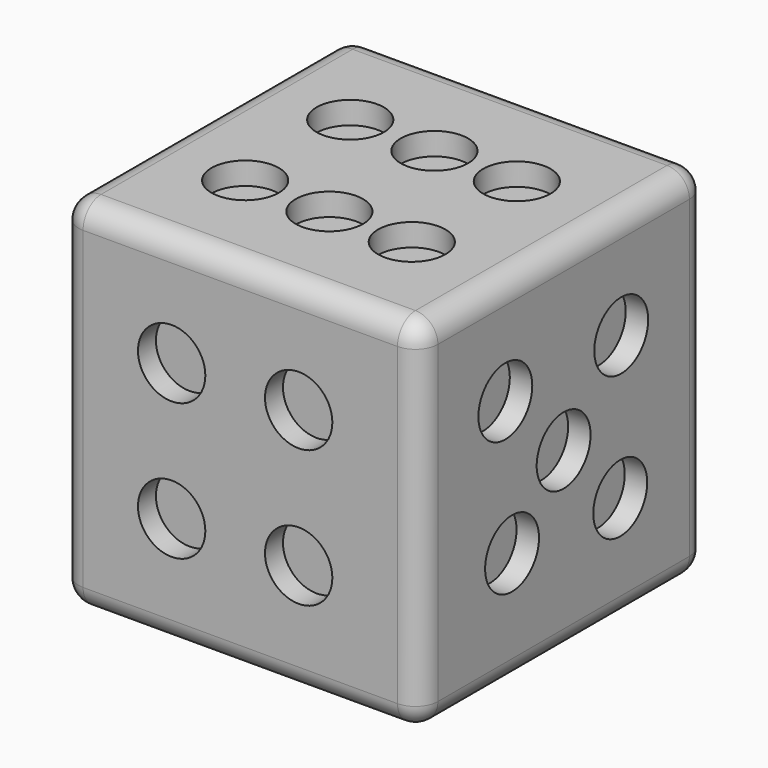
from build123d import *

# Parameters (mm, degrees)
F0_W      = 16
F0_H      = 16
F1_DEPTH  = 16
F2_R      = 1
F4_R      = 1.5
F5_DEPTH  = 1
F3_R      = 1.5
F6_DEPTH  = 1
F7_R      = 1.5
F8_DEPTH  = 1
F9_R      = 1.5
F10_DEPTH = 1
F12_R     = 1.5
F13_DEPTH = 1
F11_R     = 1.5
F14_DEPTH = 1


with BuildPart() as f1:
    # F0 (on Top) → F1 (new body)
    with BuildSketch(Plane.XY):
        Rectangle(F0_W, F0_H)
    extrude(amount=F1_DEPTH)

    # F2
    f2_edges = [f1.edges().sort_by_distance(p)[0] for p in [
        (8, 0, 0),
        (8, 8, 8),
        (8, -8, 8),
        (8, 0, 16),
        (-8, 0, 16),
        (-8, 0, 0),
        (-8, -8, 8),
        (-8, 8, 8),
        (0, -8, 16),
        (0, -8, 0),
        (0, 8, 0),
        (0, 8, 16),
    ]]
    fillet(f2_edges, radius=F2_R)

    # F4 (on face) → F5 (cut)
    with BuildSketch(Plane.XY.offset(16)):
        with Locations((3.670213, -3.041311)):
            Circle(F4_R)
        with Locations((3.670213, 2.806282)):
            Circle(F4_R)
        with Locations((0, 2.806282)):
            Circle(F4_R)
        with Locations((-3.749967, 2.806282)):
            Circle(F4_R)
        with Locations((-3.749967, -3.041311)):
            Circle(F4_R)
        with Locations((0, -3.041311)):
            Circle(F4_R)
    extrude(amount=-F5_DEPTH, mode=Mode.SUBTRACT)

    # F3 (on face) → F6 (cut)
    with BuildSketch(Plane(origin=(0, 0, 0), x_dir=(1, 0, 0), z_dir=(0, 0, -1))):
        Circle(F3_R)
    extrude(amount=-F6_DEPTH, mode=Mode.SUBTRACT)

    # F7 (on face) → F8 (cut)
    with BuildSketch(Plane.XZ.offset(8)):
        with Locations((-3.057017, 4.979474)):
            Circle(F7_R)
        with Locations((2.599712, 4.979474)):
            Circle(F7_R)
        with Locations((-3.057017, 11.075789)):
            Circle(F7_R)
        with Locations((2.599712, 11.075789)):
            Circle(F7_R)
    extrude(amount=-F8_DEPTH, mode=Mode.SUBTRACT)

    # F9 (on face) → F10 (cut)
    with BuildSketch(Plane(origin=(-8, 0, 0), x_dir=(0, -1, 0), z_dir=(-1, 0, 0))):
        with Locations((-2.80434, 5.19566)):
            Circle(F9_R)
        with Locations((2.57599, 10.57599)):
            Circle(F9_R)
    extrude(amount=-F10_DEPTH, mode=Mode.SUBTRACT)

    # F12 (on face) → F13 (cut)
    with BuildSketch(Plane.YZ.offset(8)):
        with Locations((0, 8)):
            Circle(F12_R)
        with Locations((3.151538, 4.848462)):
            Circle(F12_R)
        with Locations((-3.246599, 11.246599)):
            Circle(F12_R)
        with Locations((-2.871442, 5.128558)):
            Circle(F12_R)
        with Locations((3.205944, 11.205944)):
            Circle(F12_R)
    extrude(amount=-F13_DEPTH, mode=Mode.SUBTRACT)

    # F11 (on face) → F14 (cut)
    with BuildSketch(Plane(origin=(0, 8, 0), x_dir=(-1, 0, 0), z_dir=(0, 1, 0))):
        with Locations((-3.412174, 11.412174)):
            Circle(F11_R)
        with Locations((3.286976, 4.713024)):
            Circle(F11_R)
        with Locations((0, 8)):
            Circle(F11_R)
    extrude(amount=-F14_DEPTH, mode=Mode.SUBTRACT)


solid = f1.part
